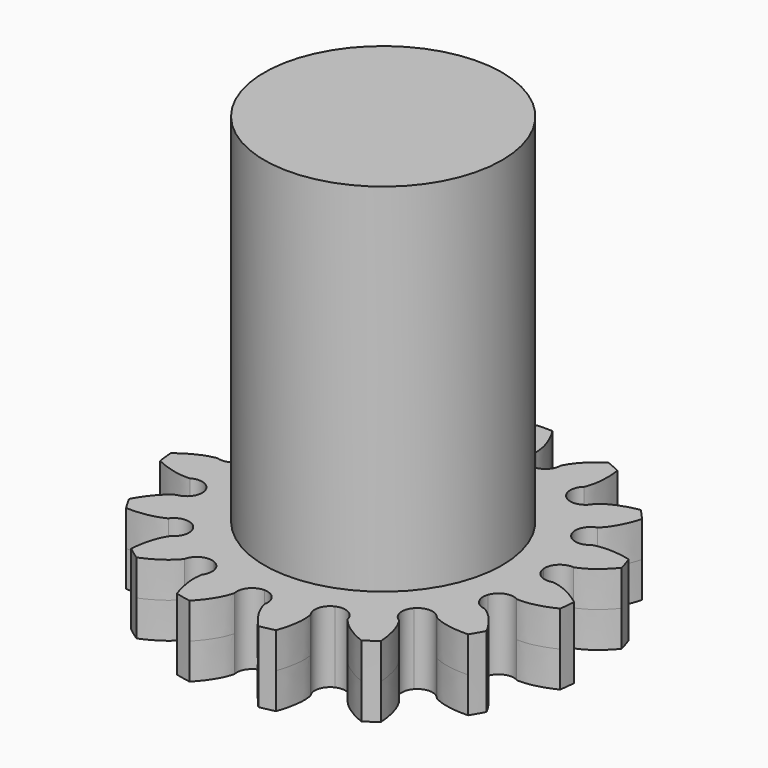
from build123d import *

# Parameters (mm, degrees)
F3_DEPTH = 1.5
F4_COUNT = 15
F5_R     = 5
F6_DEPTH = 15


with BuildPart() as f3:
    # F2 (on Top) → F3 (new body, symmetric)
    with BuildSketch(Plane.XY):
        with BuildLine():
            add(Edge.make_bspline(
                [(-0.8437893045, 6.9970007555), (-0.8479796997, 7.0317490013), (-0.8442840025, 7.1020703308), (-0.8085163091, 7.4194225538), (-0.6465724756, 7.9041550264), (-0.4774405192, 8.2473321535), (-0.3246200901, 8.4937990203)],
                knots=[0, 0, 0, 0, 0.1313874627, 0.3588672069, 0.6525329911, 1, 1, 1, 1], degree=3))
            ThreePointArc((-0.8437893045, 6.9970007555), (-0.8622197594, 6.4472252057), (-1.2994480676, 6.1134225046))
            Line((-1.2994480676, 6.1134225046), (0, 0))
            Line((0, 0), (1.2994480676, 6.1134225046))
            ThreePointArc((1.2994480676, 6.1134225046), (0.8622197594, 6.4472252057), (0.8437893045, 6.9970007555))
            add(Edge.make_bspline(
                [(0.8437893045, 6.9970007555), (0.8479796997, 7.0317490013), (0.8442840025, 7.1020703308), (0.8085163091, 7.4194225538), (0.6465724756, 7.9041550264), (0.4774405192, 8.2473321535), (0.3246200901, 8.4937990203)],
                knots=[0, 0, 0, 0, 0.1313874627, 0.3588672069, 0.6525329911, 1, 1, 1, 1], degree=3))
            ThreePointArc((0.3246200901, 8.4937990203), (0, 8.5), (-0.3246200901, 8.4937990203))
        make_face()
    extrude(amount=F3_DEPTH, both=True)

    # F4: F3 ×15 about axis
    f4_axis = Axis((0, 0, 0), (0, 0, -1))


with BuildPart() as f3_1:
    add(f3.part)
    for i in range(1, F4_COUNT):
        add(f3.part.rotate(f4_axis, i * 360 / F4_COUNT))

    # F5 (on face) → F6 (join)
    with BuildSketch(Plane.XY.offset(1.5)):
        Circle(F5_R)
    extrude(amount=F6_DEPTH)


solid = f3_1.part
